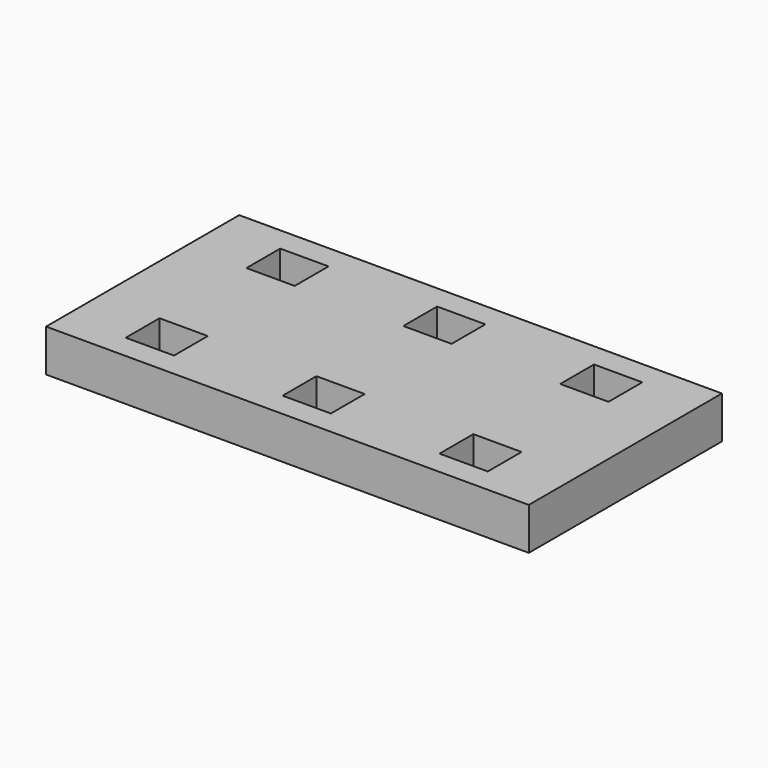
from build123d import *

# Parameters (mm, degrees)
F0_W     = 50.8
F0_H     = 25.4
F0_W_2   = 5.08
F0_H_2   = 4.445
F1_DEPTH = 4.445


with BuildPart() as f1:
    # F0 (on Top) → F1 (new body)
    with BuildSketch(Plane.XY):
        with Locations((4.63355, 9.841932)):
            Rectangle(F0_W, F0_H)
        with Locations((-11.87645, 1.904432)):
            Rectangle(F0_W_2, F0_H_2, mode=Mode.SUBTRACT)
        with Locations((4.63355, 1.904432)):
            Rectangle(F0_W_2, F0_H_2, mode=Mode.SUBTRACT)
        with Locations((21.14355, 1.904432)):
            Rectangle(F0_W_2, F0_H_2, mode=Mode.SUBTRACT)
        with Locations((-11.87645, 17.779432)):
            Rectangle(F0_W_2, F0_H_2, mode=Mode.SUBTRACT)
        with Locations((4.63355, 17.779432)):
            Rectangle(F0_W_2, F0_H_2, mode=Mode.SUBTRACT)
        with Locations((21.14355, 17.779432)):
            Rectangle(F0_W_2, F0_H_2, mode=Mode.SUBTRACT)
    extrude(amount=F1_DEPTH)


solid = f1.part
